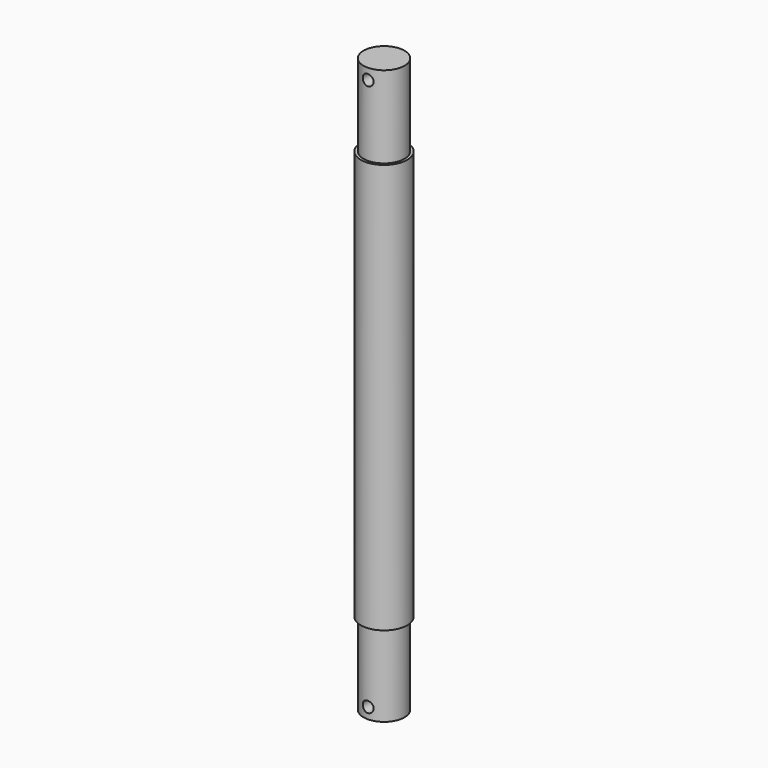
from build123d import *

# Parameters (mm, degrees)
F2_D     = 4
F3_D     = 4
F4_D     = 4
F4_DEPTH = 150
F5_D     = 4
F5_DEPTH = 150


with BuildPart() as f1:
    # F0 (on Front) → F1 (revolve)
    with BuildSketch(Plane.XZ):
        with BuildLine():
            Line((7.5, -75), (8.5, -75))
            Line((8.5, -75), (8.5, 75))
            Line((8.5, 75), (7.5, 75))
            Line((7.5, 75), (7.5, 105))
            Line((7.5, 105), (0, 105))
            Line((0, 105), (0, 104))
            ThreePointArc((0, 104), (3, 101), (0, 98))
            Line((0, 98), (0, -98))
            ThreePointArc((0, -98), (3, -101), (0, -104))
            Line((0, -104), (0, -105))
            Line((0, -105), (7.5, -105))
            Line((7.5, -105), (7.5, -75))
        make_face()
    revolve(axis=Axis((0, 0, 64.221174), (0, 0, 1)))

    # F2 (through all)
    with Locations(Plane.XZ):
        with Locations((0, 101)):
            Hole(F2_D / 2)

    # F3 (through all)
    with Locations(Plane(origin=(0, 0, 0), x_dir=(1, 0, 0), z_dir=(0, 1, 0))):
        with Locations((0, 101)):
            Hole(F3_D / 2)

    # F4
    with Locations(Plane(origin=(0, 0, 0), x_dir=(1, 0, 0), z_dir=(0, 1, 0))):
        with Locations((0, -101)):
            Hole(F4_D / 2, depth=F4_DEPTH)

    # F5
    with Locations(Plane.XZ):
        with Locations((0, -101)):
            Hole(F5_D / 2, depth=F5_DEPTH)


solid = f1.part
